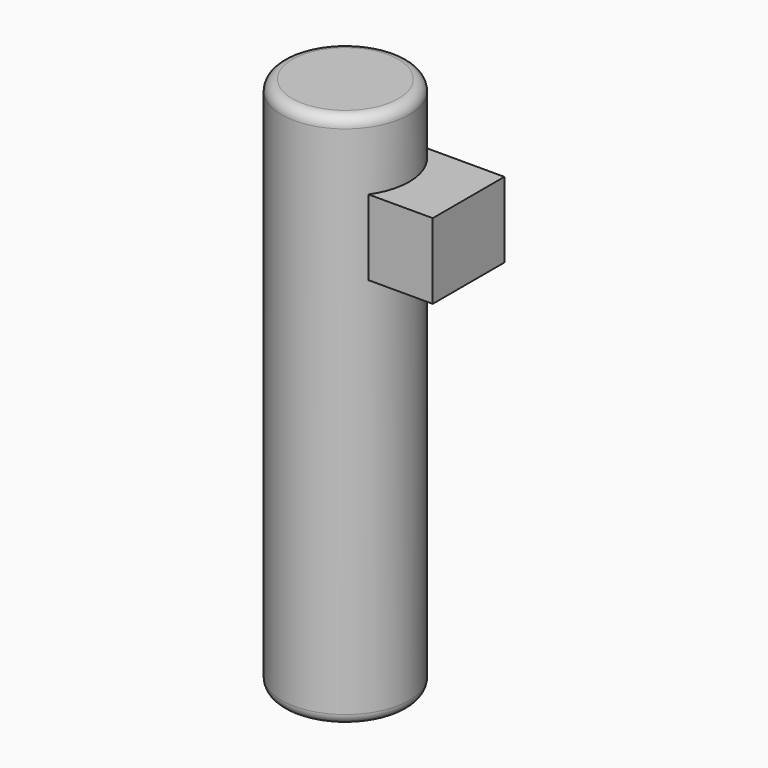
from build123d import *

# Parameters (mm, degrees)
F0_R     = 30.180652
F1_DEPTH = 254
F2_R     = 23.830652
F3_DEPTH = 102.916548
F4_R     = 5.08
F6_W     = 42.340428
F6_H     = 35.694406
F7_DEPTH = 45.834139


with BuildPart() as f1:
    # F0 (on Top) → F1 (new body)
    with BuildSketch(Plane.XY):
        Circle(F0_R)
    extrude(amount=-F1_DEPTH)

    # F2 (on face) → F3 (cut)
    with BuildSketch(Plane(origin=(0, 0, -254), x_dir=(1, 0, 0), z_dir=(0, 0, -1))):
        Circle(F2_R)
    extrude(amount=-F3_DEPTH, mode=Mode.SUBTRACT)

    # F4
    f4_edges = [f1.edges().sort_by_distance(p)[0] for p in [
        (30.180652, 0, -127),
        (-30.180652, 0, 0),
        (-30.180652, 0, -254),
    ]]
    fillet(f4_edges, radius=F4_R)

    # F6 (on offset) → F7 (join)
    with BuildSketch(Plane.YZ.offset(55.124739)):
        with Locations((3.907934, -50.849177)):
            Rectangle(F6_W, F6_H)
    extrude(amount=-F7_DEPTH)


solid = f1.part
